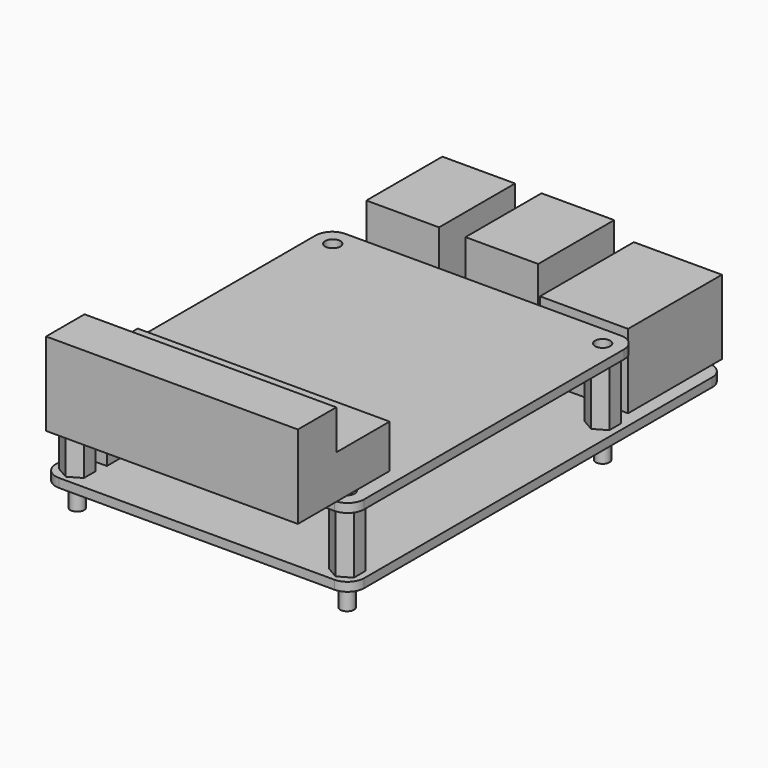
from build123d import *

# Parameters (mm, degrees)
SKETCH_R     = 1.375
PAD_DEPTH    = 1.6
SKETCH001_W  = 16
SKETCH001_H  = 21.3
PAD001_DEPTH = 13.5
SKETCH002_W  = 13.2
SKETCH002_H  = 17.25
PAD002_DEPTH = 16
PAD008_DEPTH = 11
SKETCH011_R  = 1.25
PAD009_DEPTH = 6
SKETCH012_W  = 5
SKETCH012_H  = 50.8
PAD010_DEPTH = 11
SKETCH013_R  = 1.375
PAD011_DEPTH = 1.6
PAD012_DEPTH = 45.72


with BuildPart() as part:
    # Sketch → Pad (new body)
    with BuildSketch(Plane.XY):
        with BuildLine():
            ThreePointArc((-25, 42.5), (-27.12132, 41.62132), (-28, 39.5))
            Line((-28, -39.5), (-28, 39.5))
            ThreePointArc((-28, -39.5), (-27.12132, -41.62132), (-25, -42.5))
            Line((25, -42.5), (-25, -42.5))
            ThreePointArc((25, -42.5), (27.12132, -41.62132), (28, -39.5))
            Line((28, 39.5), (28, -39.5))
            ThreePointArc((28, 39.5), (27.12132, 41.62132), (25, 42.5))
            Line((-25, 42.5), (25, 42.5))
        make_face()
        with Locations((-24.5, 19)):
            Circle(SKETCH_R, mode=Mode.SUBTRACT)
        with Locations((24.5, 19)):
            Circle(SKETCH_R, mode=Mode.SUBTRACT)
        with Locations((-24.5, -39)):
            Circle(SKETCH_R, mode=Mode.SUBTRACT)
        with Locations((24.5, -39)):
            Circle(SKETCH_R, mode=Mode.SUBTRACT)
    extrude(amount=PAD_DEPTH)

    # Sketch001 → Pad001 (join)
    with BuildSketch(Plane.XY.offset(1.6)):
        with Locations((17.6, 34.05)):
            Rectangle(SKETCH001_W, SKETCH001_H)
    extrude(amount=PAD001_DEPTH)

    # Sketch002 → Pad002 (join)
    with BuildSketch(Plane.XY.offset(1.6)):
        with Locations((-18.4, 35.875)):
            Rectangle(SKETCH002_W, SKETCH002_H)
        with Locations((-0.4, 35.875)):
            Rectangle(SKETCH002_W, SKETCH002_H)
    extrude(amount=PAD002_DEPTH)

    # Sketch010 → Pad008 (join)
    with BuildSketch(Plane.XY.offset(1.6)):
        Polygon((-22.235344, -40.3075), (-22.235344, -37.6925), (-24.5, -36.385), (-26.764656, -37.6925), (-26.764656, -40.3075), (-24.5, -41.615), align=None)
        Polygon((-22.235344, 17.6925), (-22.235344, 20.3075), (-24.5, 21.615), (-26.764656, 20.3075), (-26.764656, 17.6925), (-24.5, 16.385), align=None)
        Polygon((24.5, -41.615), (26.764656, -40.3075), (26.764656, -37.6925), (24.5, -36.385), (22.235344, -37.6925), (22.235344, -40.3075), align=None)
        Polygon((24.5, 16.385), (26.764656, 17.6925), (26.764656, 20.3075), (24.5, 21.615), (22.235344, 20.3075), (22.235344, 17.6925), align=None)
    extrude(amount=PAD008_DEPTH)

    # Sketch011 → Pad009 (join)
    with BuildSketch(Plane.XY.offset(1.6)):
        with Locations((-24.5, 19)):
            Circle(SKETCH011_R)
        with Locations((-24.5, -39)):
            Circle(SKETCH011_R)
        with Locations((24.5, 19)):
            Circle(SKETCH011_R)
        with Locations((24.5, -39)):
            Circle(SKETCH011_R)
    extrude(amount=-PAD009_DEPTH)

    # Sketch012 → Pad010 (join)
    with BuildSketch(Plane.XY.offset(1.6)):
        with Locations((-24.5, -10)):
            Rectangle(SKETCH012_W, SKETCH012_H)
    extrude(amount=PAD010_DEPTH)

    # Sketch013 → Pad011 (join)
    with BuildSketch(Plane.XY.offset(12.6)):
        with BuildLine():
            ThreePointArc((-25, 22.5), (-27.12132, 21.62132), (-28, 19.5))
            Line((-28, -39.5), (-28, 19.5))
            ThreePointArc((-28, -39.5), (-27.12132, -41.62132), (-25, -42.5))
            Line((25, -42.5), (-25, -42.5))
            ThreePointArc((25, -42.5), (27.12132, -41.62132), (28, -39.5))
            Line((28, 19.5), (28, -39.5))
            ThreePointArc((28, 19.5), (27.12132, 21.62132), (25, 22.5))
            Line((-25, 22.5), (25, 22.5))
        make_face()
        with Locations((-24.5, 19)):
            Circle(SKETCH013_R, mode=Mode.SUBTRACT)
        with Locations((24.5, 19)):
            Circle(SKETCH013_R, mode=Mode.SUBTRACT)
        with Locations((-24.5, -39)):
            Circle(SKETCH013_R, mode=Mode.SUBTRACT)
        with Locations((24.5, -39)):
            Circle(SKETCH013_R, mode=Mode.SUBTRACT)
    extrude(amount=PAD011_DEPTH)

    # Sketch014 → Pad012 (join)
    with BuildSketch(Plane(origin=(-20.34, -30.45, 14.2), x_dir=(0, 1, 0), z_dir=(1, 0, 0))):
        Polygon((0, 0), (0, 7.9), (-12.1, 7.9), (-12.1, 15.1), (-20.82, 15.1), (-20.82, 0), align=None)
    extrude(amount=PAD012_DEPTH)


solid = part.part
